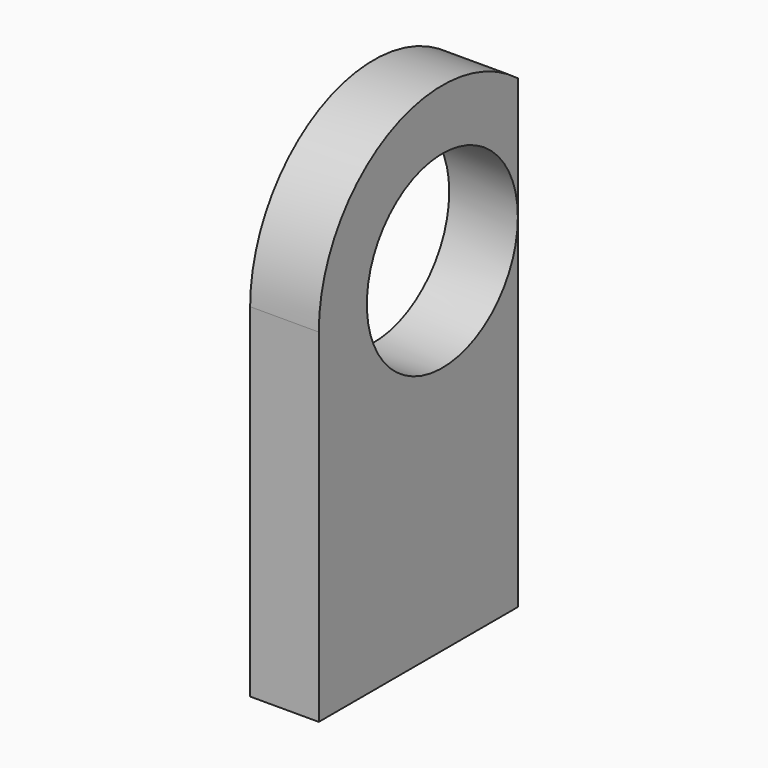
from build123d import *

# Parameters (mm, degrees)
SKETCH178_R      = 2.75
EXTRUDE038_DEPTH = 5
EXTRUDE037_DEPTH = 15
EXTRUDE036_DEPTH = 2


with BuildPart() as extrude038:
    # Sketch178 → Extrude038 (new body)
    with BuildSketch(Plane.YZ.offset(-2)):
        with Locations((2.75, 10)):
            Circle(SKETCH178_R)
    extrude(amount=EXTRUDE038_DEPTH)


with BuildPart() as extrude037:
    # Sketch177 → Extrude037 (new body)
    with BuildSketch(Plane.XY):
        Polygon((0, 5.5), (-1.75, 7.25), (0, 7.25), align=None)
    extrude(amount=EXTRUDE037_DEPTH)


with BuildPart() as cut025:
    # Sketch176 → Extrude036 (new body)
    with BuildSketch(Plane.YZ.offset(-2)):
        with BuildLine():
            Line((-1.75, 0), (7.25, 0))
            Line((7.25, 0), (7.25, 10))
            ThreePointArc((7.25, 10), (2.749999, 14.5), (-1.75, 9.999998))
            Line((-1.75, 0), (-1.75, 9.999998))
        make_face()
    extrude(amount=EXTRUDE036_DEPTH)

    # Cut024: cut Extrude037
    add(extrude037.part, mode=Mode.SUBTRACT)

    # Cut025: cut Extrude038
    add(extrude038.part, mode=Mode.SUBTRACT)


solid = cut025.part
